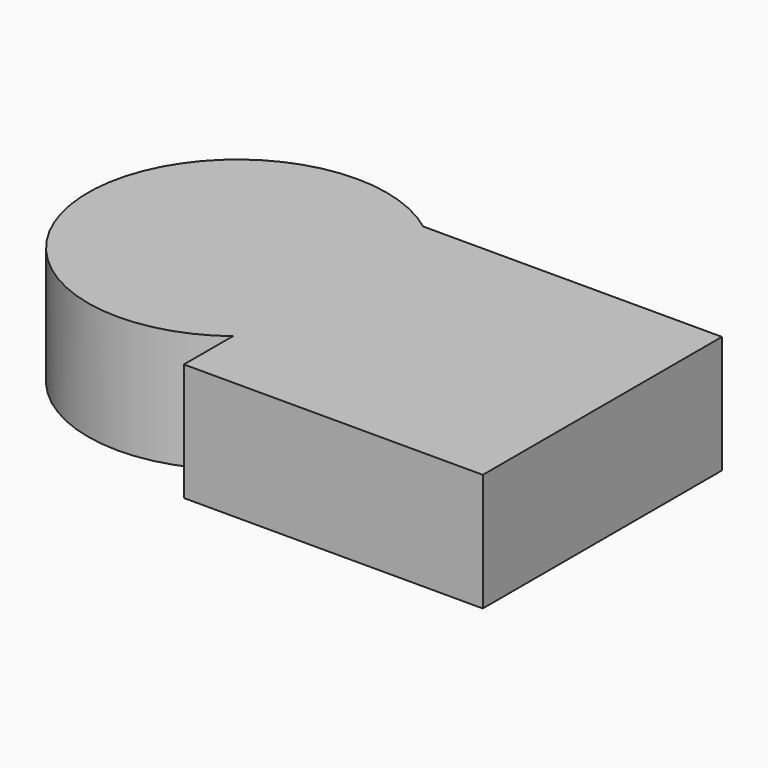
from build123d import *

# Parameters (mm, degrees)
F1_DEPTH = 10


with BuildPart() as f1:
    # F0 (on Top) → F1 (new body)
    with BuildSketch(Plane.XY):
        with BuildLine():
            ThreePointArc((7.6980242142, -10.1010109988), (11.3810128618, -5.6358270236), (12.7, 0))
            ThreePointArc((12.7, 0), (11.3810128618, 5.6358270236), (7.6980242142, 10.1010109988))
            Line((7.6980242142, 10.1010109988), (7.6980242142, -10.1010109988))
        make_face()
        with BuildLine():
            ThreePointArc((7.6980242142, 10.1010109988), (11.3810128618, 5.6358270236), (12.7, 0))
            ThreePointArc((12.7, 0), (11.3810128618, -5.6358270236), (7.6980242142, -10.1010109988))
            Line((7.6980242142, -10.1010109988), (7.6980242142, -15.2989890012))
            Line((7.6980242142, -15.2989890012), (33.0980242142, -15.2989890012))
            Line((33.0980242142, -15.2989890012), (33.0980242142, 10.1010109988))
            Line((33.0980242142, 10.1010109988), (7.6980242142, 10.1010109988))
        make_face()
        with BuildLine():
            Line((7.6980242142, -10.1010109988), (7.6980242142, 10.1010109988))
            ThreePointArc((7.6980242142, 10.1010109988), (-12.7, 0), (7.6980242142, -10.1010109988))
        make_face()
    extrude(amount=F1_DEPTH)


solid = f1.part
